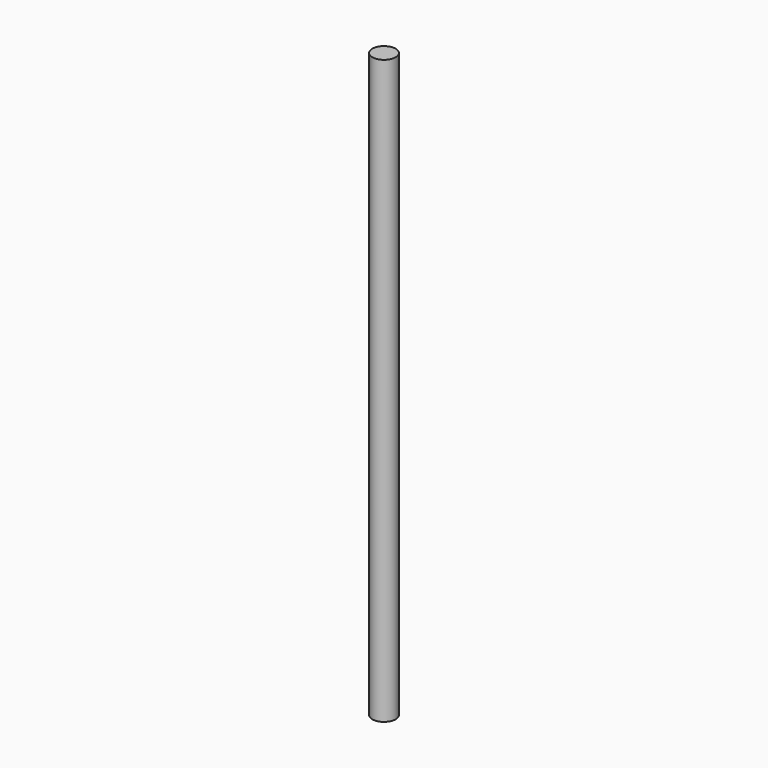
from build123d import *

# Parameters (mm, degrees)
SKETCH_R  = 4
PAD_DEPTH = 200


with BuildPart() as part:
    # Sketch → Pad (new body)
    with BuildSketch(Plane.XY):
        Circle(SKETCH_R)
    extrude(amount=PAD_DEPTH)


solid = part.part
